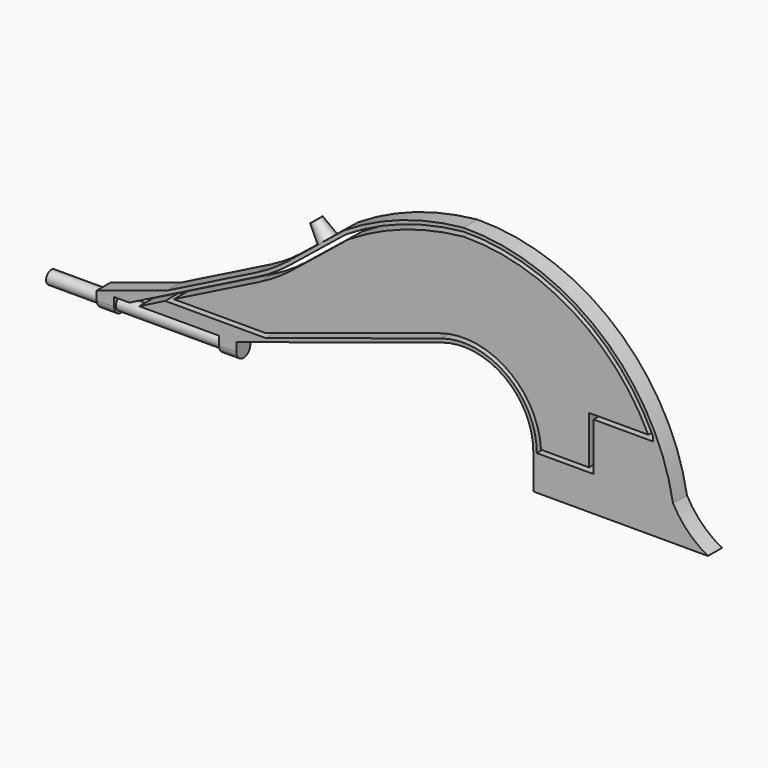
from build123d import *

# Parameters (mm, degrees)
F1_DEPTH  = 1
F2_W      = 1
F2_H      = 1
F3_DEPTH  = 1
F5_DEPTH  = 1.1
F6_R      = 0.5
F7_DEPTH  = 10
F8_R      = 0.5
F9_DEPTH  = 1
F9_TAPER  = 10
F10_R     = 0.25
F11_DEPTH = 1
F13_R     = 0.375
F14_DEPTH = 10
F15_W     = 1
F15_H     = 1
F16_DEPTH = 1
F18_DEPTH = 25
F20_DEPTH = 20


with BuildPart() as f1:
    # F0 (on Front) → F1 (new body)
    with BuildSketch(Plane.XZ):
        with BuildLine():
            ThreePointArc((-1.2307692308, 3.8059436544), (2.3533936217, 3.2344301603), (4, 0))
            Line((4, 0), (4, -2))
            Line((4, -2), (14, -2))
            ThreePointArc((14, -2), (12.8556310856, -1.1443689144), (12, 0))
            ThreePointArc((12, 0), (7.8498553444, 7.2198264133), (0, 10))
            ThreePointArc((0, 10), (-3.55336543, 9.2258567783), (-6.8285443319, 7.6450636964))
            Line((-6.8285443319, 7.6450636964), (-10.0761376412, 5.0274618018))
            ThreePointArc((-10.0761376412, 5.0274618018), (-10.9367194729, 4.4061716306), (-11.8583053969, 3.8795959469))
            Line((-11.8583053969, 3.8795959469), (-17, 1.2935233335))
            Line((-17, 1.2935233335), (-21, 0))
            Line((-21, 0), (-13, 0))
            Line((-13, 0), (-1.2307692308, 3.8059436544))
        make_face()
    extrude(amount=F1_DEPTH)

    # F2 (on face) → F3 (join)
    with BuildSketch(Plane(origin=(0, 0, 0), x_dir=(1, 0, 0), z_dir=(0, 0, -1))):
        with Locations((-13.5, 0.5)):
            Rectangle(F2_W, F2_H)
    extrude(amount=F3_DEPTH)

    # F4 (on face) → F5 (cut)
    with BuildSketch(Plane(origin=(-14, 0, 0), x_dir=(0, -1, 0), z_dir=(-1, 0, 0))):
        with BuildLine():
            Line((0, -0.5), (0, 0))
            Line((0, 0), (-0.4260281858, 0))
            Line((-0.4260281858, 0), (-0.4260281858, -1))
            Line((-0.4260281858, -1), (0.5, -1.2644260423))
            Line((0.5, -1.2644260423), (1.4661723981, -1))
            Line((1.4661723981, -1), (1.4661723981, 0))
            Line((1.4661723981, 0), (1, 0))
            Line((1, 0), (1, -0.5))
            ThreePointArc((1, -0.5), (0.8535533906, -0.8535533906), (0.5, -1))
            ThreePointArc((0.5, -1), (0.1464466094, -0.8535533906), (0, -0.5))
        make_face()
    extrude(amount=-F5_DEPTH, mode=Mode.SUBTRACT)

    # F8 (on face) → F9 (join)
    with BuildSketch(Plane(origin=(-6.4245058064, 0, 7.9707239343), x_dir=(0.7785799461, 0, 0.6275454307), z_dir=(-0.6275454307, 0, 0.7785799461))):
        with Locations((-2.2689428876, -0.5)):
            Circle(F8_R)
    extrude(amount=F9_DEPTH, taper=F9_TAPER)

    # F10 (on face) → F11 (cut)
    with BuildSketch(Plane(origin=(-7.0520512371, 0, 8.7493038804), x_dir=(0.7785799461, 0, 0.6275454307), z_dir=(-0.6275454307, 0, 0.7785799461))):
        with Locations((-2.2689428876, -0.5)):
            Circle(F10_R)
    extrude(amount=-F11_DEPTH, mode=Mode.SUBTRACT)

    # F13 (on face) → F14 (join)
    with BuildSketch(Plane(origin=(-14, 0, 0), x_dir=(0, -1, 0), z_dir=(-1, 0, 0))):
        with Locations((0.5, -0.5)):
            Circle(F13_R)
    extrude(amount=F14_DEPTH)

    # F15 (on face) → F16 (join)
    with BuildSketch(Plane(origin=(0, 0, 0), x_dir=(1, 0, 0), z_dir=(0, 0, -1))):
        with Locations((-20.5, 0.5)):
            Rectangle(F15_W, F15_H)
    extrude(amount=F16_DEPTH)

    # F17 (on face) → F18 (cut)
    with BuildSketch(Plane.YZ.offset(-20)):
        with BuildLine():
            ThreePointArc((0, -0.5), (-0.1464466094, -0.8535533906), (-0.5, -1))
            Line((-0.5, -1), (0, -1))
            Line((0, -1), (0, -0.5))
        make_face()
        with BuildLine():
            ThreePointArc((-0.5, -1), (-0.8535533906, -0.8535533906), (-1, -0.5))
            Line((-1, -0.5), (-1, -1))
            Line((-1, -1), (-0.5, -1))
        make_face()
    extrude(amount=-F18_DEPTH, mode=Mode.SUBTRACT)

    # F19 (on face) → F20 (cut)
    with BuildSketch(Plane.XZ.offset(1)):
        with BuildLine():
            Line((-11.7684396659, 3.7009226406), (-19.1267071287, 0))
            Line((-19.1267071287, 0), (-18.5703215139, 0))
            Line((-18.5703215139, 0), (-17.0791526534, 0.75))
            Line((-17.0791526534, 0.75), (-11.3307530856, 0.75))
            Line((-11.3307530856, 0.75), (-1.2923076923, 3.9962408371))
            ThreePointArc((-1.2923076923, 3.9962408371), (2.4710633027, 3.3961516683), (4.2, 0))
            Line((4.2, 0), (7.4429719783, 0))
            Line((7.4429719783, 0), (7.4429719783, 2.75))
            Line((7.4429719783, 2.75), (10.8565016648, 2.75))
            Line((10.8565016648, 2.75), (10.8565016648, 3))
            ThreePointArc((10.8565016648, 3), (6.4360393371, 7.9985307946), (0.0110857368, 9.8001324516))
            ThreePointArc((0.0110857368, 9.8001324516), (-3.4868463955, 9.0372376485), (-6.7117250372, 7.4823436237))
            Line((-6.7117250372, 7.4823436237), (-7.9643731986, 6.4726931262))
            Line((-7.9643731986, 6.4726931262), (-9.950628555, 4.8717458125))
            ThreePointArc((-9.950628555, 4.8717458125), (-10.8284220234, 4.238029838), (-11.7684396659, 3.7009226406))
        make_face()
        with BuildLine():
            ThreePointArc((0.0249202776, 9.5502892216), (6.2579782939, 7.8149527201), (10.5798569724, 3))
            Line((10.5798569724, 3), (7.1929719783, 3))
            Line((7.1929719783, 3), (7.1929719783, 0.25))
            Line((7.1929719783, 0.25), (4.4429719783, 0.25))
            ThreePointArc((4.4429719783, 0.25), (2.5160005944, 3.6704551501), (-1.3692307692, 4.2341123155))
            Line((-1.3692307692, 4.2341123155), (-11.3701707808, 1))
            Line((-11.3701707808, 1), (-16.5820963665, 1))
            Line((-16.5820963665, 1), (-11.6561075021, 3.4775810077))
            ThreePointArc((-11.6561075021, 3.4775810077), (-10.6930502115, 4.0278525972), (-9.7937421974, 4.677100826))
            Line((-9.7937421974, 4.677100826), (-7.5659956664, 6.4726931262))
            Line((-7.5659956664, 6.4726931262), (-6.5657814379, 7.2788786335))
            ThreePointArc((-6.5657814379, 7.2788786335), (-3.4037571753, 8.8014430117), (0.0249202776, 9.5502892216))
        make_face(mode=Mode.SUBTRACT)
    extrude(amount=-F20_DEPTH, mode=Mode.SUBTRACT)


with BuildPart() as f7:
    # F6 (on face) → F7 (new body)
    with BuildSketch(Plane(origin=(-14, 0, 0), x_dir=(0, -1, 0), z_dir=(-1, 0, 0))):
        with Locations((0.5, -0.5)):
            Circle(F6_R)
    extrude(amount=F7_DEPTH)


solid = f1.part
